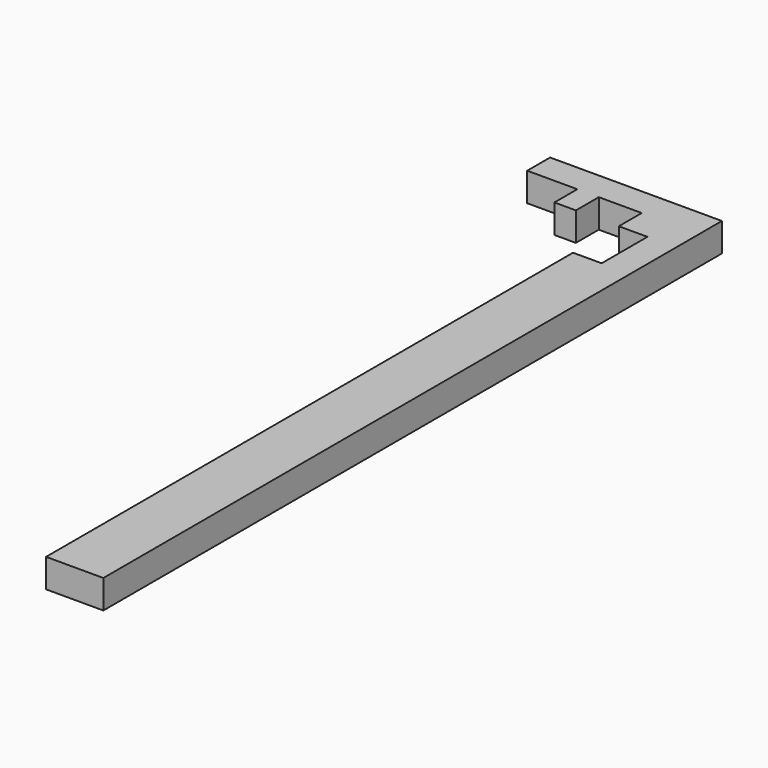
from build123d import *

# Parameters (mm, degrees)
F0_W     = 6.35
F0_H     = 6.35
F0_H_2   = 146.05
F0_W_2   = 4.7625
F1_DEPTH = 6.35


with BuildPart() as f1:
    # F0 (on Top) → F1 (new body)
    with BuildSketch(Plane.XY):
        Polygon((7.844118, -136.711765), (7.844118, 15.688235), (1.494118, 15.688235), (1.494118, 9.338235), (1.494118, -136.711765), align=None)
        with Locations((4.669118, 18.863235)):
            Rectangle(F0_W, F0_H)
        Polygon((1.494118, 22.038235), (7.844118, 22.038235), (7.844118, 28.388235), (-4.855882, 28.388235), (-4.855882, 22.038235), align=None)
        with Locations((-1.680882, -63.686765)):
            Rectangle(F0_W, F0_H_2)
        Polygon((-4.855882, 28.388235), (7.844118, 28.388235), (7.844118, 34.738235), (-30.255882, 34.738235), (-30.255882, 28.388235), (-19.143382, 28.388235), (-14.380882, 28.388235), align=None)
        with Locations((-16.762132, 25.213235)):
            Rectangle(F0_W_2, F0_H)
    extrude(amount=F1_DEPTH)


solid = f1.part
